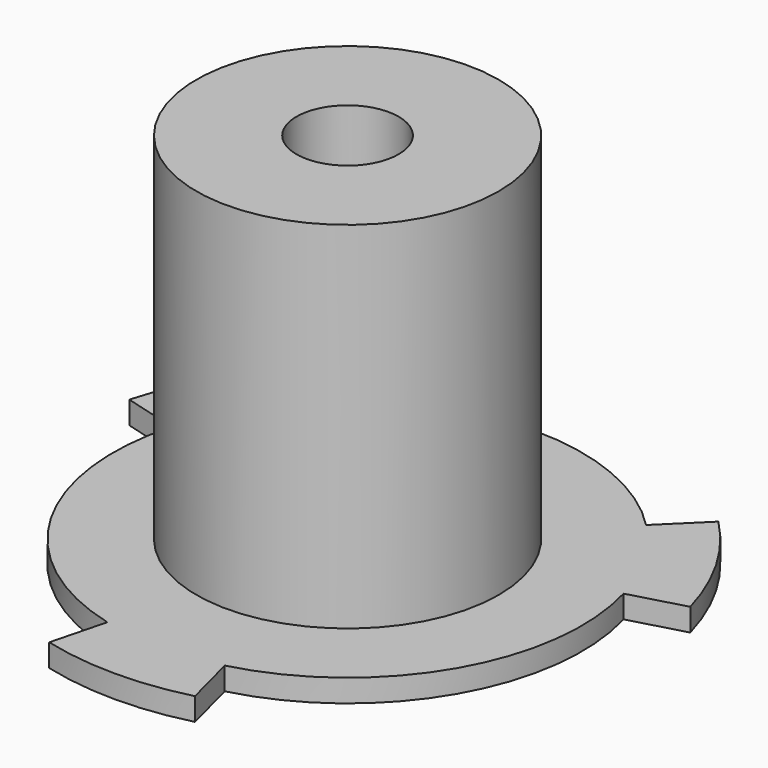
from build123d import *

# Parameters (mm, degrees)
F3_DEPTH = 25.401
F4_R     = 3.429
F5_DEPTH = 19.05
F6_R     = 12.7
F7_DEPTH = 1.016


with BuildPart() as f1:
    # F0 (on Front) → F1 (revolve)
    with BuildSketch(Plane.XZ):
        Polygon((0, 25.4), (0, 0), (19.558, 0), (19.558, 1.524), (10.16, 1.524), (10.16, 25.4), align=None)
    revolve(axis=Axis((0, 0, 10.4228793643), (0, 0, -1)))

    # F2 (on face) → F3 (cut, through all)
    with BuildSketch(Plane(origin=(0, 0, 0), x_dir=(1, 0, 0), z_dir=(0, 0, -1))):
        with BuildLine():
            Line((-3.9429843038, 15.2463890407), (-4.8969321193, 18.9350315505))
            ThreePointArc((-4.8969321193, 18.9350315505), (-16.9377248472, 9.779), (-18.8466844039, -5.2266481593))
            Line((-18.8466844039, -5.2266481593), (-15.1752523771, -4.2084699465))
            ThreePointArc((-15.1752523771, -4.2084699465), (-13.6381680588, 7.874), (-3.9429843038, 15.2463890407))
        make_face()
        with BuildLine():
            Line((4.8969321193, 18.9350315505), (3.9429843038, 15.2463890407))
            ThreePointArc((3.9429843038, 15.2463890407), (13.6381680588, 7.874), (15.1752523771, -4.2084699465))
            Line((15.1752523771, -4.2084699465), (18.8466844039, -5.2266481593))
            ThreePointArc((18.8466844039, -5.2266481593), (19.3793552211, -2.6374144943), (19.558, 0))
            ThreePointArc((19.558, 0), (15.4643066833, 11.9737455629), (4.8969321193, 18.9350315505))
        make_face()
        with BuildLine():
            ThreePointArc((-13.9497522846, -13.7083833912), (0, -19.558), (13.9497522846, -13.7083833912))
            Line((13.9497522846, -13.7083833912), (11.2322680733, -11.0379190942))
            ThreePointArc((11.2322680733, -11.0379190942), (0, -15.748), (-11.2322680733, -11.0379190942))
            Line((-11.2322680733, -11.0379190942), (-13.9497522846, -13.7083833912))
        make_face()
    extrude(amount=-F3_DEPTH, mode=Mode.SUBTRACT)

    # F4 (on face) → F5 (cut)
    with BuildSketch(Plane.XY.offset(25.4)):
        Circle(F4_R)
    extrude(amount=-F5_DEPTH, mode=Mode.SUBTRACT)

    # F6 (on Front) → F7 (cut, symmetric)
    with BuildSketch(Plane.XZ):
        with Locations((0, -10.16)):
            Circle(F6_R)
    extrude(amount=F7_DEPTH, both=True, mode=Mode.SUBTRACT)


solid = f1.part
